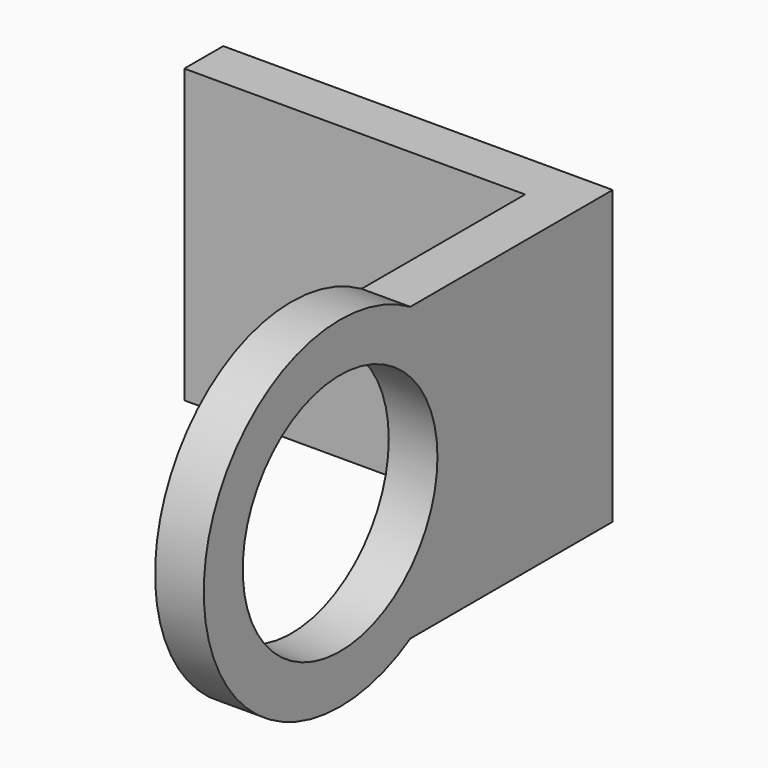
from build123d import *

# Parameters (mm, degrees)
F0_R     = 12.5
F1_DEPTH = 5
F3_DEPTH = 30


with BuildPart() as f1:
    # F0 (on Right) → F1 (new body)
    with BuildSketch(Plane.YZ):
        with BuildLine():
            Line((10, 0), (0, 0))
            Line((0, 0), (-10.986122, 0))
            ThreePointArc((-10.986122, 0), (-37.5, -15), (-10.986122, -30))
            Line((-10.986122, -30), (0, -30))
            Line((0, -30), (10, -30))
            Line((10, -30), (10, 0))
        make_face()
        with Locations((-20, -15)):
            Circle(F0_R, mode=Mode.SUBTRACT)
    extrude(amount=F1_DEPTH)

    # F2 (on Top) → F3 (join)
    with BuildSketch(Plane.XY):
        Polygon((-15, 10), (0, 10), (5, 10), (5, 15), (-35, 15), (-35, 10), align=None)
    extrude(amount=-F3_DEPTH)


solid = f1.part
